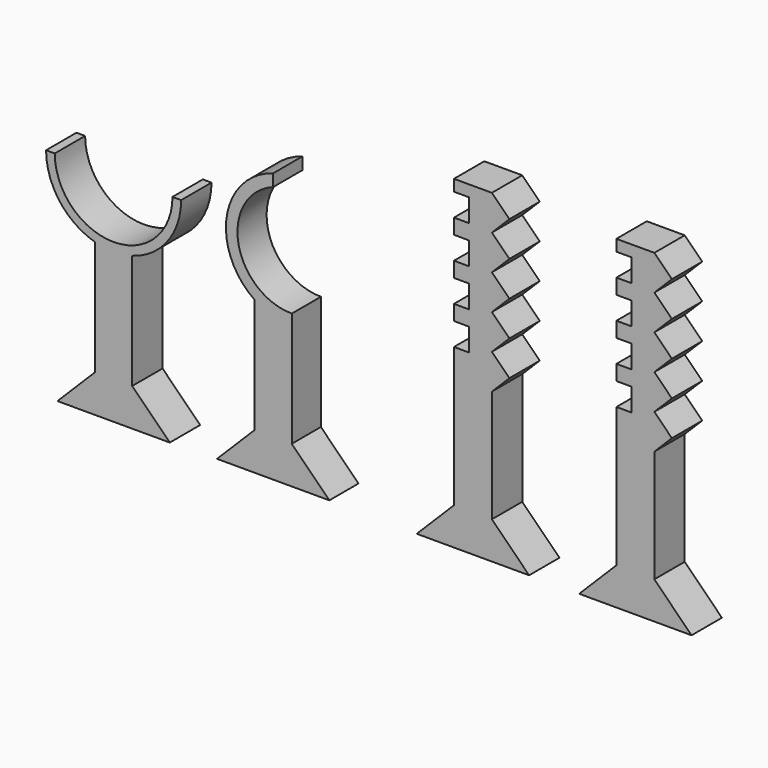
from build123d import *

# Parameters (mm, degrees)
F1_DEPTH = 6.096
F3_DEPTH = 6.35
F5_DEPTH = 6.35
F6_W     = 5.08
F6_H     = 3.81
F7_DEPTH = 25.4


with BuildPart() as f1:
    # F0 (on Front) → F1 (new body)
    with BuildSketch(Plane.XZ):
        Polygon((-9.398, 0), (0, 0), (9.398, 0), (3.1115, 6.2865), (3.1115, 25.4635), (0, 25.4635), (-3.1115, 25.4635), (-3.1115, 6.2865), align=None)
        with BuildLine():
            ThreePointArc((0, 45.111989), (-7.765035, 36.271036), (-3.1115, 25.4635))
            Line((-3.1115, 25.4635), (0, 25.4635))
            Line((0, 25.4635), (3.1115, 25.4635))
            ThreePointArc((3.1115, 25.4635), (-5.835235, 32.968829), (0, 43.084364))
            Line((0, 43.084364), (0, 45.111989))
        make_face()
    extrude(amount=F1_DEPTH)


with BuildPart() as f3:
    # F2 (on Front) → F3 (new body)
    with BuildSketch(Plane.XZ):
        Polygon((-29.599147, 6.2865), (-35.885647, 0), (-17.089647, 0), (-23.376147, 6.2865), (-23.376147, 25.4635), (-29.599147, 25.4635), align=None)
        with BuildLine():
            ThreePointArc((-37.78497, 36.32389), (-35.509319, 29.523968), (-29.599147, 25.4635))
            Line((-29.599147, 25.4635), (-23.376147, 25.4635))
            ThreePointArc((-23.376147, 25.4635), (-17.465975, 29.523968), (-15.190324, 36.32389))
            Line((-15.190324, 36.32389), (-16.64114, 36.32389))
            ThreePointArc((-16.64114, 36.32389), (-26.487647, 26.477383), (-36.334153, 36.32389))
            Line((-36.334153, 36.32389), (-37.78497, 36.32389))
        make_face()
    extrude(amount=F3_DEPTH)


with BuildPart() as f5:
    # F4 (on Front) → F5 (new body)
    with BuildSketch(Plane.XZ):
        Polygon((30.444223, 6.223), (24.221223, 0), (43.017223, 0), (36.794223, 6.223), (36.794223, 25.032556), (36.794223, 30.887192), (36.794223, 36.741828), (36.794223, 42.596464), (36.794223, 48.4511), (36.794223, 54.305736), (30.444223, 54.305736), align=None)
        Polygon((36.794223, 30.887192), (36.794223, 25.032556), (39.721541, 27.959874), align=None)
        Polygon((39.721541, 51.378418), (36.794223, 54.305736), (36.794223, 48.4511), align=None)
        Polygon((36.794223, 36.741828), (36.794223, 30.887192), (39.721541, 33.81451), align=None)
        Polygon((39.721541, 45.523782), (36.794223, 48.4511), (36.794223, 42.596464), align=None)
        Polygon((36.794223, 42.596464), (36.794223, 36.741828), (39.721541, 39.669146), align=None)
    extrude(amount=F5_DEPTH)

    # F6 (on face) → F7 (cut)
    with BuildSketch(Plane(origin=(0, 0, 0), x_dir=(-1, 0, 0), z_dir=(0, 1, 0))):
        with Locations((-30.444223, 50.495736)):
            Rectangle(F6_W, F6_H)
        with Locations((-30.444223, 44.145736)):
            Rectangle(F6_W, F6_H)
        with Locations((-30.444223, 37.795736)):
            Rectangle(F6_W, F6_H)
        with Locations((-30.444223, 31.445736)):
            Rectangle(F6_W, F6_H)
    extrude(amount=-F7_DEPTH, mode=Mode.SUBTRACT)


with BuildPart() as f8_1:
    # F8: copy of F5
    add(f5.part.moved(Location((27.178, 0, 0))))


solid = Compound([f1.part, f3.part, f5.part, f8_1.part])
